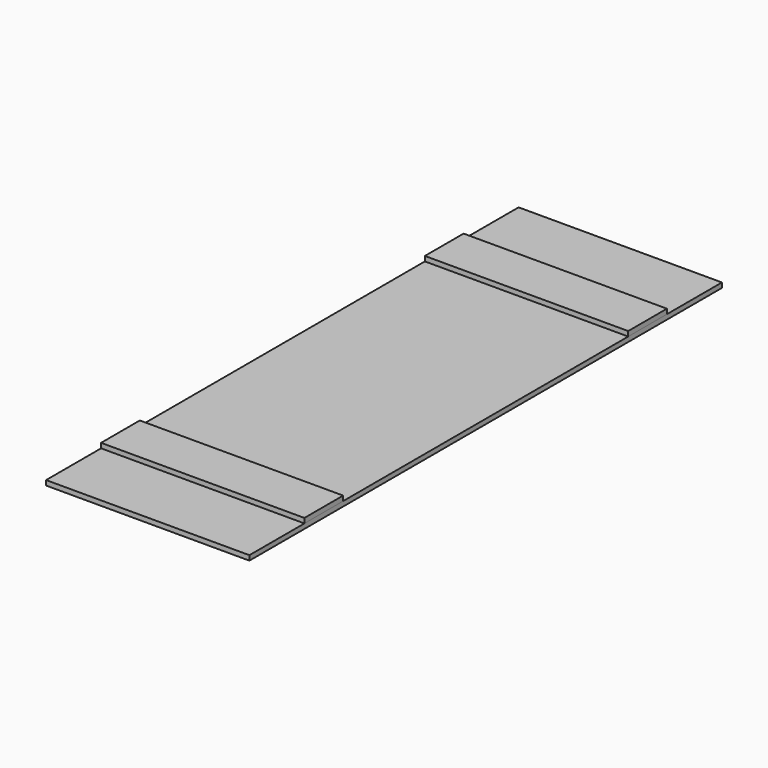
from build123d import *

# Parameters (mm, degrees)
F1_W     = 210
F1_H     = 610
F2_DEPTH = 5
F3_W     = 210
F3_H     = 50
F4_DEPTH = 5


with BuildPart() as f2:
    # F1 (on Top) → F2 (new body)
    with BuildSketch(Plane.XY):
        Rectangle(F1_W, F1_H)
    extrude(amount=F2_DEPTH)


with BuildPart() as f4:
    # F3 (on face) → F4 (new body)
    with BuildSketch(Plane.XY.offset(5)):
        with Locations((0, -209)):
            Rectangle(F3_W, F3_H)
    extrude(amount=F4_DEPTH)


with BuildPart() as f4b:
    # F3 (on face) → F4, piece 2 (new body)
    with BuildSketch(Plane.XY.offset(5)):
        with Locations((0, 209)):
            Rectangle(F3_W, F3_H)
    extrude(amount=F4_DEPTH)


solid = Compound([f2.part, f4.part, f4b.part])
